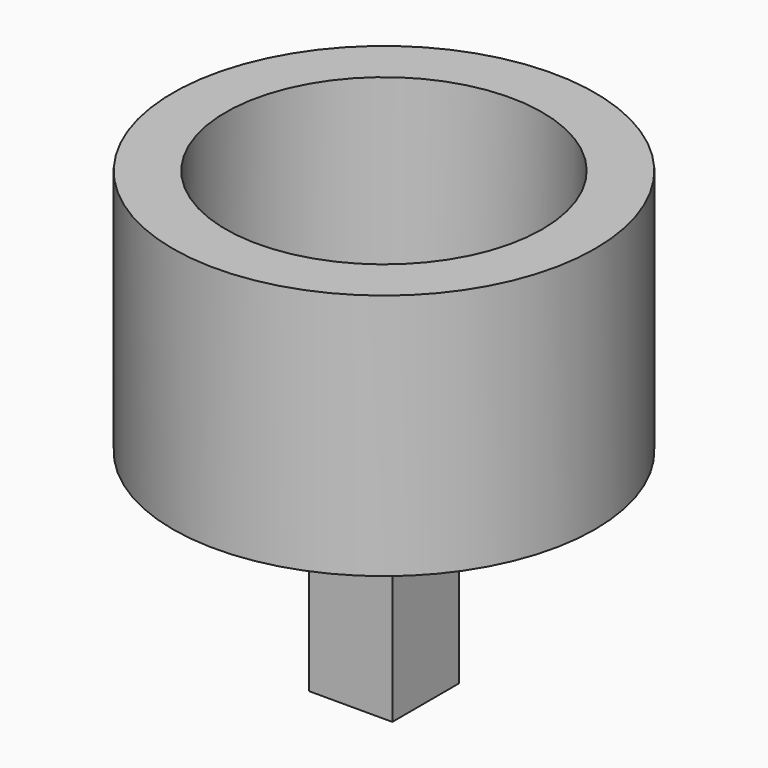
from build123d import *

# Parameters (mm, degrees)
F0_W     = 10
F0_H     = 10
F1_DEPTH = 25
F2_R     = 25.4
F2_R_2   = 19.05
F3_DEPTH = 29.718


with BuildPart() as f1:
    # F0 (on Top) → F1 (new body)
    with BuildSketch(Plane.XY):
        Rectangle(F0_W, F0_H)
    extrude(amount=F1_DEPTH)


with BuildPart() as f3:
    # F2 (on face) → F3 (new body)
    with BuildSketch(Plane.XY.offset(25)):
        Circle(F2_R)
        Circle(F2_R_2, mode=Mode.SUBTRACT)
    extrude(amount=F3_DEPTH)


solid = Compound([f1.part, f3.part])
